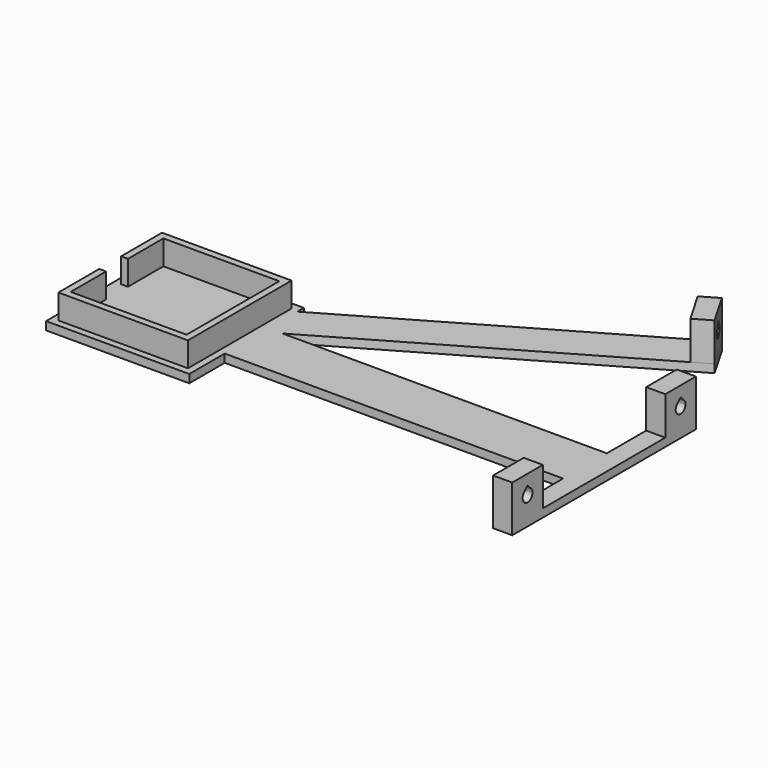
from build123d import *

# Parameters (mm, degrees)
F1_DEPTH  = 9
F2_W      = 123.8
F2_H      = 10
F3_DEPTH  = 3
F5_DEPTH  = 5
F6_W      = 14
F6_H      = 14
F7_DEPTH  = 2
F10_DEPTH = 2
F11_W     = 14
F11_H     = 14
F12_DEPTH = 5


with BuildPart() as f1:
    # F0 (on Top) → F1 (new body)
    with BuildSketch(Plane.XY):
        Polygon((-21.2, 21.2), (21.2, 21.2), (21.2, 0), (23.7, 0), (23.7, 23.7), (-23.7, 23.7), (-23.7, 5), (-21.2, 5), align=None)
        Polygon((23.7, 0), (21.2, 0), (21.2, -21.2), (-21.2, -21.2), (-21.2, -5), (-23.7, -5), (-23.7, -23.7), (23.7, -23.7), align=None)
    extrude(amount=F1_DEPTH)

    # F2 (on Top) → F3 (join)
    with BuildSketch(Plane.XY):
        Polygon((-26.2, 26.2), (-26.2, -26.2), (26.2, -26.2), (26.2, -10), (26.2, 0), (0, 0), (26.2, 15.1265770528), (26.2, 23.2094808214), (26.2, 26.2), align=None)
        Polygon((150, 40.1923788647), (150, 10), (157, 10), (157, 35), (157, 42), (150, 42), align=None)
        Polygon((26.2, 10), (26.2, 0), (150, 0), (150, 10), (31.3205080757, 10), align=None)
        Polygon((150, 0), (150, -10), (157, -10), (157, 10), (150, 10), align=None)
        Polygon((157, -10), (150, -10), (150, -40.1923788647), (150, -42), (157, -42), (157, -35), align=None)
        with Locations((88.1, -5)):
            Rectangle(F2_W, F2_H)
        Polygon((26.2, 10), (26.2, 0), (150, 0), (150, 10), (31.3205080757, 10), align=None)
        Polygon((150, 40.1923788647), (150, 10), (157, 10), (157, 35), (157, 42), (150, 42), align=None)
        Polygon((0, 0), (26.2, 0), (26.2, 10), (26.2, 15.1265770528), align=None)
        Polygon((126.4038105677, 81.0621778265), (26.2, 23.2094808214), (26.2, 15.1265770528), (129.9038105677, 75), align=None)
        Polygon((26.2, 15.1265770528), (26.2, 10), (31.3205080757, 10), (133.4038105677, 68.9378221735), (129.9038105677, 75), align=None)
        Polygon((132.4659883942, 84.5621778265), (126.4038105677, 81.0621778265), (129.9038105677, 75), (133.4038105677, 68.9378221735), (139.4659883942, 72.4378221735), align=None)
    extrude(amount=-F3_DEPTH)

    # F4 (on face) → F5 (join)
    with BuildSketch(Plane.YZ.offset(157)):
        Polygon((28, 0), (35, 0), (42, 0), (42, 14), (28, 14), align=None)
        with BuildLine():
            ThreePointArc((37.25, 7), (36.5909902577, 5.4090097423), (35, 4.75))
            ThreePointArc((35, 4.75), (33.4090097423, 5.4090097423), (32.75, 7))
            ThreePointArc((32.75, 7), (32.9212710518, 7.8610377228), (33.4090097423, 8.5909902577))
            Line((33.4090097423, 8.5909902577), (35, 10.1819805153))
            Line((35, 10.1819805153), (36.5909902577, 8.5909902577))
            ThreePointArc((36.5909902577, 8.5909902577), (37.0787289482, 7.8610377228), (37.25, 7))
        make_face(mode=Mode.SUBTRACT)
        Polygon((-35, 0), (-28, 0), (-28, 14), (-42, 14), (-42, 0), align=None)
        with BuildLine():
            ThreePointArc((-32.75, 7), (-33.4090097423, 5.4090097423), (-35, 4.75))
            ThreePointArc((-35, 4.75), (-36.5909902577, 5.4090097423), (-37.25, 7))
            ThreePointArc((-37.25, 7), (-37.0787289482, 7.8610377228), (-36.5909902577, 8.5909902577))
            Line((-36.5909902577, 8.5909902577), (-35, 10.1819805153))
            Line((-35, 10.1819805153), (-33.4090097423, 8.5909902577))
            ThreePointArc((-33.4090097423, 8.5909902577), (-32.9212710518, 7.8610377228), (-32.75, 7))
        make_face(mode=Mode.SUBTRACT)
    extrude(amount=-F5_DEPTH)

    # F6 (on face) → F7 (join)
    with BuildSketch(Plane(origin=(152, 0, 0), x_dir=(0, -1, 0), z_dir=(-1, 0, 0))):
        with Locations((-35, 7)):
            Rectangle(F6_W, F6_H)
        with BuildLine():
            ThreePointArc((-32.3483495706, 9.6516504294), (-31.5354517531, 8.4350628714), (-31.25, 7))
            ThreePointArc((-31.25, 7), (-35, 3.25), (-38.75, 7))
            ThreePointArc((-38.75, 7), (-38.4645482469, 8.4350628714), (-37.6516504294, 9.6516504294))
            Line((-37.6516504294, 9.6516504294), (-35, 12.3033008589))
            Line((-35, 12.3033008589), (-32.3483495706, 9.6516504294))
        make_face(mode=Mode.SUBTRACT)
        with Locations((35, 7)):
            Rectangle(F6_W, F6_H)
        with BuildLine():
            ThreePointArc((37.6516504294, 9.6516504294), (38.4645482469, 8.4350628714), (38.75, 7))
            ThreePointArc((38.75, 7), (35, 3.25), (31.25, 7))
            ThreePointArc((31.25, 7), (31.5354517531, 8.4350628714), (32.3483495706, 9.6516504294))
            Line((32.3483495706, 9.6516504294), (35, 12.3033008589))
            Line((35, 12.3033008589), (37.6516504294, 9.6516504294))
        make_face(mode=Mode.SUBTRACT)
    extrude(amount=F7_DEPTH)

    # F9 (on line) → F10 (join)
    with BuildSketch(Plane(origin=(129.9038105677, 75, 0), x_dir=(0.5, -0.8660254038, 0), z_dir=(-0.8660254038, -0.5, 0))):
        Polygon((-7, 0), (0, 0), (7, 0), (7, 14), (-7, 14), align=None)
        with BuildLine():
            ThreePointArc((3.75, 7), (2.6516504294, 4.3483495706), (0, 3.25))
            ThreePointArc((0, 3.25), (-3.4645482469, 5.5649371286), (-2.6516504294, 9.6516504294))
            Line((-2.6516504294, 9.6516504294), (0, 12.3033008589))
            Line((0, 12.3033008589), (2.6516504294, 9.6516504294))
            ThreePointArc((2.6516504294, 9.6516504294), (3.4645482469, 8.4350628714), (3.75, 7))
        make_face(mode=Mode.SUBTRACT)
    extrude(amount=-F10_DEPTH)

    # F11 (on face) → F12 (join)
    with BuildSketch(Plane(origin=(131.6358613752, 76, 0), x_dir=(-0.5, 0.8660254038, 0), z_dir=(0.8660254038, 0.5, 0))):
        with Locations((0, 7)):
            Rectangle(F11_W, F11_H)
        with BuildLine():
            Line((-2.6516504294, 9.6516504294), (0, 12.3033008589))
            Line((0, 12.3033008589), (2.6516504294, 9.6516504294))
            ThreePointArc((2.6516504294, 9.6516504294), (0, 3.25), (-2.6516504294, 9.6516504294))
        make_face(mode=Mode.SUBTRACT)
        with BuildLine():
            Line((2.6516504294, 9.6516504294), (0, 12.3033008589))
            Line((0, 12.3033008589), (-2.6516504294, 9.6516504294))
            ThreePointArc((-2.6516504294, 9.6516504294), (0, 3.25), (2.6516504294, 9.6516504294))
        make_face()
        with BuildLine():
            ThreePointArc((1.5909902577, 8.5909902577), (2.0787289482, 7.8610377228), (2.25, 7))
            ThreePointArc((2.25, 7), (0, 4.75), (-2.25, 7))
            ThreePointArc((-2.25, 7), (-2.0787289482, 7.8610377228), (-1.5909902577, 8.5909902577))
            Line((-1.5909902577, 8.5909902577), (0, 10.1819805153))
            Line((0, 10.1819805153), (1.5909902577, 8.5909902577))
        make_face(mode=Mode.SUBTRACT)
    extrude(amount=F12_DEPTH)


solid = f1.part
